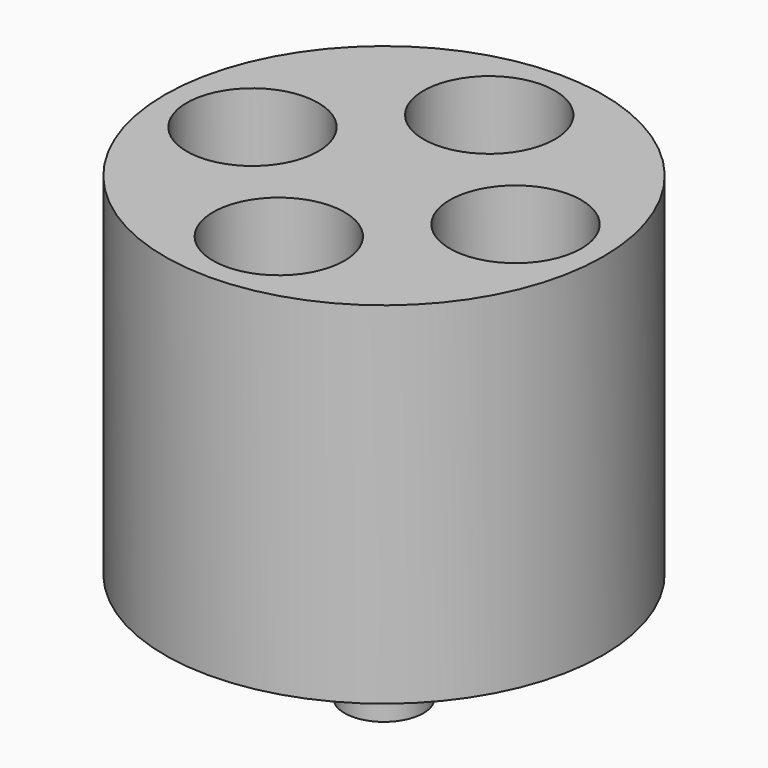
from build123d import *

# Parameters (mm, degrees)
F0_R     = 50
F1_DEPTH = 80
F2_R     = 15
F3_DEPTH = 80.001
F4_R     = 9
F5_DEPTH = 25
F7_D     = 10
F7_DEPTH = 20
F7_TIP   = 3.0043030951


with BuildPart() as f1:
    # F0 (on Top) → F1 (new body)
    with BuildSketch(Plane.XY):
        Circle(F0_R)
    extrude(amount=F1_DEPTH)

    # F2 (on face) → F3 (cut, through all)
    with BuildSketch(Plane.XY.offset(80)):
        with Locations((0, 30)):
            Circle(F2_R)
        with Locations((-30, 0)):
            Circle(F2_R)
        with Locations((0, -30)):
            Circle(F2_R)
        with Locations((30, 0)):
            Circle(F2_R)
    extrude(amount=-F3_DEPTH, mode=Mode.SUBTRACT)

    # F4 (on face) → F5 (join)
    with BuildSketch(Plane(origin=(0, 0, 0), x_dir=(1, 0, 0), z_dir=(0, 0, -1))):
        Circle(F4_R)
    extrude(amount=F5_DEPTH)

    # F7
    with Locations(Plane(origin=(0, 0, -25), x_dir=(1, 0, 0), z_dir=(0, 0, -1))):
        with Locations((0, 0)):
            Hole(F7_D / 2, depth=F7_DEPTH)
            with Locations((0, 0, -(F7_DEPTH + F7_TIP / 2))):  # 118° drill point
                Cone(0, F7_D / 2, F7_TIP, mode=Mode.SUBTRACT)


solid = f1.part
